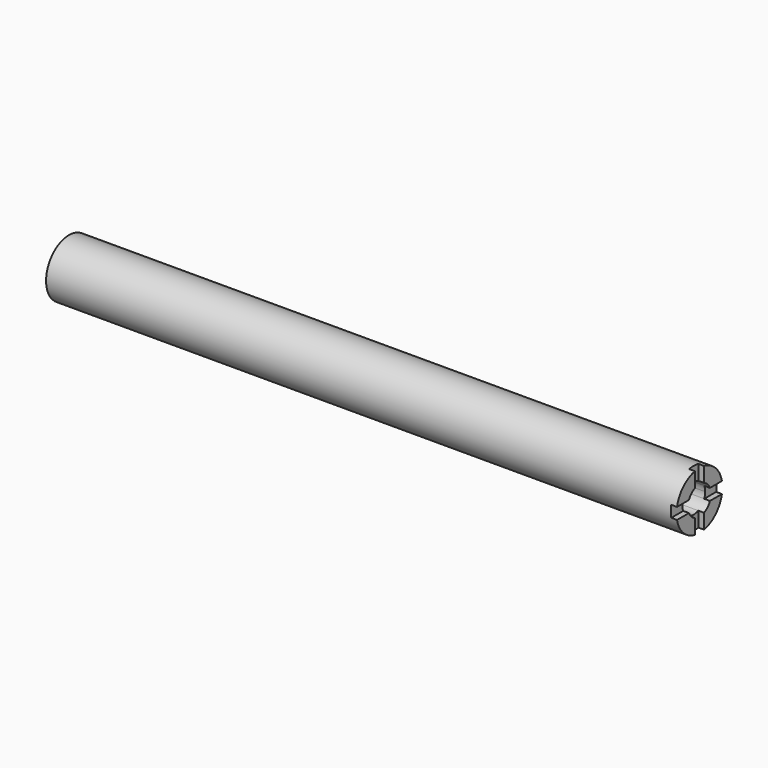
from build123d import *

# Parameters (mm, degrees)
F0_W     = 279.4
F0_H     = 12.7
F3_DEPTH = 19.05
F4_DEPTH = 2.54


with BuildPart() as f1:
    # F0 (on Front) → F1 (revolve)
    with BuildSketch(Plane.XZ):
        with Locations((139.7, 6.35)):
            Rectangle(F0_W, F0_H)
    revolve(axis=Axis((175.998241, 0, 0), (1, 0, 0)))

    # F2 (on face) → F3 (cut)
    with BuildSketch(Plane.YZ.offset(279.4)):
        with BuildLine():
            ThreePointArc((5.819871, -2.54), (6.216055, -1.297366), (6.35, 0))
            ThreePointArc((6.35, 0), (6.216055, 1.297366), (5.819871, 2.54))
            ThreePointArc((5.819871, 2.54), (4.490128, 4.490128), (2.54, 5.819871))
            ThreePointArc((2.54, 5.819871), (0, 6.35), (-2.54, 5.819871))
            ThreePointArc((-2.54, 5.819871), (-4.490128, 4.490128), (-5.819871, 2.54))
            ThreePointArc((-5.819871, 2.54), (-6.35, 0), (-5.819871, -2.54))
            ThreePointArc((-5.819871, -2.54), (-4.490128, -4.490128), (-2.54, -5.819871))
            ThreePointArc((-2.54, -5.819871), (0, -6.35), (2.54, -5.819871))
            ThreePointArc((2.54, -5.819871), (4.490128, -4.490128), (5.819871, -2.54))
        make_face()
    extrude(amount=-F3_DEPTH, mode=Mode.SUBTRACT)

    # F2 (on face) → F4 (cut)
    with BuildSketch(Plane.YZ.offset(279.4)):
        with BuildLine():
            ThreePointArc((-5.819871, -2.54), (-6.35, 0), (-5.819871, 2.54))
            Line((-5.819871, 2.54), (-12.443408, 2.54))
            ThreePointArc((-12.443408, 2.54), (-12.7, 0), (-12.443408, -2.54))
            Line((-12.443408, -2.54), (-5.819871, -2.54))
        make_face()
        with BuildLine():
            ThreePointArc((5.819871, 2.54), (6.216055, 1.297366), (6.35, 0))
            ThreePointArc((6.35, 0), (6.216055, -1.297366), (5.819871, -2.54))
            Line((5.819871, -2.54), (12.443408, -2.54))
            ThreePointArc((12.443408, -2.54), (12.635689, -1.276464), (12.7, 0))
            ThreePointArc((12.7, 0), (12.635689, 1.276464), (12.443408, 2.54))
            Line((12.443408, 2.54), (5.819871, 2.54))
        make_face()
        with BuildLine():
            Line((2.54, -12.443408), (2.54, -5.819871))
            ThreePointArc((2.54, -5.819871), (0, -6.35), (-2.54, -5.819871))
            Line((-2.54, -5.819871), (-2.54, -12.443408))
            ThreePointArc((-2.54, -12.443408), (0, -12.7), (2.54, -12.443408))
        make_face()
        with BuildLine():
            ThreePointArc((-2.54, 5.819871), (0, 6.35), (2.54, 5.819871))
            Line((2.54, 5.819871), (2.54, 12.443408))
            ThreePointArc((2.54, 12.443408), (0, 12.7), (-2.54, 12.443408))
            Line((-2.54, 12.443408), (-2.54, 5.819871))
        make_face()
    extrude(amount=-F4_DEPTH, mode=Mode.SUBTRACT)


solid = f1.part
